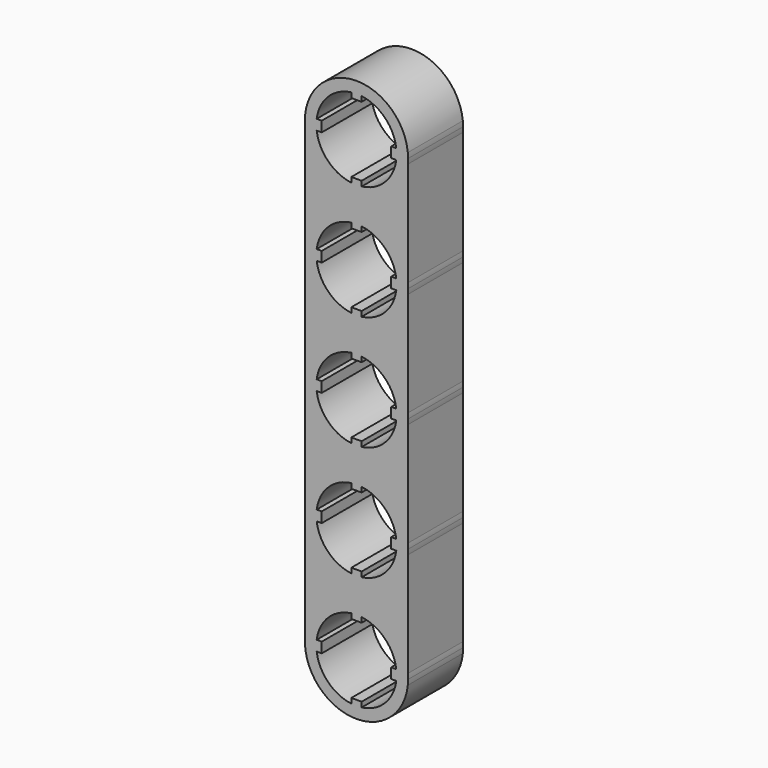
from build123d import *

# Parameters (mm, degrees)
F1_DEPTH = 7.62


with BuildPart() as f1:
    # F0 (on Front) → F1 (new body)
    with BuildSketch(Plane.XZ):
        with BuildLine():
            Line((-7.840858501, -16.5704088648), (-7.840858501, -5.0134088648))
            ThreePointArc((-7.840858501, -5.0134088648), (-13.5272117041, -10.1569088648), (-19.2135649071, -5.0134088648))
            Line((-19.2135649071, -5.0134088648), (-19.2135649071, -16.5704088648))
            ThreePointArc((-19.2135649071, -16.5704088648), (-13.5272117041, -11.4269088648), (-7.840858501, -16.5704088648))
        make_face()
        with BuildLine():
            Line((-7.840858501, -5.0134088648), (-7.840858501, -3.8704088648))
            ThreePointArc((-7.840858501, -3.8704088648), (-13.5272117041, 1.2730911352), (-19.2135649071, -3.8704088648))
            Line((-19.2135649071, -3.8704088648), (-19.2135649071, -5.0134088648))
            ThreePointArc((-19.2135649071, -5.0134088648), (-13.5272117041, -10.1569088648), (-7.840858501, -5.0134088648))
        make_face()
        with BuildLine():
            ThreePointArc((-9.1191040886, -3.8704088648), (-9.0914443888, -4.1555640997), (-9.0822117041, -4.4419088648))
            ThreePointArc((-9.0822117041, -4.4419088648), (-9.0914443888, -4.7282536299), (-9.1191040886, -5.0134088648))
            ThreePointArc((-9.1191040886, -5.0134088648), (-10.3841220617, -7.5849985072), (-12.9557117041, -8.8500164803))
            ThreePointArc((-12.9557117041, -8.8500164803), (-13.5272117041, -8.8869088648), (-14.0987117041, -8.8500164803))
            ThreePointArc((-14.0987117041, -8.8500164803), (-16.6703013465, -7.5849985072), (-17.9353193196, -5.0134088648))
            ThreePointArc((-17.9353193196, -5.0134088648), (-17.9722117041, -4.4419088648), (-17.9353193196, -3.8704088648))
            ThreePointArc((-17.9353193196, -3.8704088648), (-16.6703013465, -1.2988192224), (-14.0987117041, -0.0338012493))
            ThreePointArc((-14.0987117041, -0.0338012493), (-13.5272117041, 0.0030911352), (-12.9557117041, -0.0338012493))
            ThreePointArc((-12.9557117041, -0.0338012493), (-10.3841220617, -1.2988192224), (-9.1191040886, -3.8704088648))
        make_face(mode=Mode.SUBTRACT)
        with BuildLine():
            Line((-7.840858501, -41.9704088648), (-7.840858501, -30.4134088648))
            ThreePointArc((-7.840858501, -30.4134088648), (-13.5272117041, -35.5569088648), (-19.2135649071, -30.4134088648))
            Line((-19.2135649071, -30.4134088648), (-19.2135649071, -41.9704088648))
            ThreePointArc((-19.2135649071, -41.9704088648), (-13.5272117041, -36.8269088648), (-7.840858501, -41.9704088648))
        make_face()
        with BuildLine():
            Line((-7.840858501, -30.4134088648), (-7.840858501, -29.2704088648))
            ThreePointArc((-7.840858501, -29.2704088648), (-13.5272117041, -24.1269088648), (-19.2135649071, -29.2704088648))
            Line((-19.2135649071, -29.2704088648), (-19.2135649071, -30.4134088648))
            ThreePointArc((-19.2135649071, -30.4134088648), (-13.5272117041, -35.5569088648), (-7.840858501, -30.4134088648))
        make_face()
        with BuildLine():
            ThreePointArc((-9.1191040886, -29.2704088648), (-9.0914443888, -29.5555640997), (-9.0822117041, -29.8419088648))
            ThreePointArc((-9.0822117041, -29.8419088648), (-9.0914443888, -30.1282536299), (-9.1191040886, -30.4134088648))
            ThreePointArc((-9.1191040886, -30.4134088648), (-10.3841220617, -32.9849985072), (-12.9557117041, -34.2500164803))
            ThreePointArc((-12.9557117041, -34.2500164803), (-13.5272117041, -34.2869088648), (-14.0987117041, -34.2500164803))
            ThreePointArc((-14.0987117041, -34.2500164803), (-16.6703013465, -32.9849985072), (-17.9353193196, -30.4134088648))
            ThreePointArc((-17.9353193196, -30.4134088648), (-17.9722117041, -29.8419088648), (-17.9353193196, -29.2704088648))
            ThreePointArc((-17.9353193196, -29.2704088648), (-16.6703013465, -26.6988192224), (-14.0987117041, -25.4338012493))
            ThreePointArc((-14.0987117041, -25.4338012493), (-13.5272117041, -25.3969088648), (-12.9557117041, -25.4338012493))
            ThreePointArc((-12.9557117041, -25.4338012493), (-10.3841220617, -26.6988192224), (-9.1191040886, -29.2704088648))
        make_face(mode=Mode.SUBTRACT)
        with BuildLine():
            Line((-7.840858501, -3.8704088648), (-7.840858501, 7.6865911352))
            ThreePointArc((-7.840858501, 7.6865911352), (-13.5272117041, 2.5430911352), (-19.2135649071, 7.6865911352))
            Line((-19.2135649071, 7.6865911352), (-19.2135649071, -3.8704088648))
            ThreePointArc((-19.2135649071, -3.8704088648), (-13.5272117041, 1.2730911352), (-7.840858501, -3.8704088648))
        make_face()
        with BuildLine():
            Line((-7.840858501, -29.2704088648), (-7.840858501, -17.7134088648))
            ThreePointArc((-7.840858501, -17.7134088648), (-13.5272117041, -22.8569088648), (-19.2135649071, -17.7134088648))
            Line((-19.2135649071, -17.7134088648), (-19.2135649071, -29.2704088648))
            ThreePointArc((-19.2135649071, -29.2704088648), (-13.5272117041, -24.1269088648), (-7.840858501, -29.2704088648))
        make_face()
        with BuildLine():
            Line((-7.840858501, -17.7134088648), (-7.840858501, -16.5704088648))
            ThreePointArc((-7.840858501, -16.5704088648), (-13.5272117041, -11.4269088648), (-19.2135649071, -16.5704088648))
            Line((-19.2135649071, -16.5704088648), (-19.2135649071, -17.7134088648))
            ThreePointArc((-19.2135649071, -17.7134088648), (-13.5272117041, -22.8569088648), (-7.840858501, -17.7134088648))
        make_face()
        with BuildLine():
            ThreePointArc((-9.1191040886, -16.5704088648), (-9.0914443888, -16.8555640997), (-9.0822117041, -17.1419088648))
            ThreePointArc((-9.0822117041, -17.1419088648), (-9.0914443888, -17.4282536299), (-9.1191040886, -17.7134088648))
            ThreePointArc((-9.1191040886, -17.7134088648), (-10.3841220617, -20.2849985072), (-12.9557117041, -21.5500164803))
            ThreePointArc((-12.9557117041, -21.5500164803), (-13.5272117041, -21.5869088648), (-14.0987117041, -21.5500164803))
            ThreePointArc((-14.0987117041, -21.5500164803), (-16.6703013465, -20.2849985072), (-17.9353193196, -17.7134088648))
            ThreePointArc((-17.9353193196, -17.7134088648), (-17.9722117041, -17.1419088648), (-17.9353193196, -16.5704088648))
            ThreePointArc((-17.9353193196, -16.5704088648), (-16.6703013465, -13.9988192224), (-14.0987117041, -12.7338012493))
            ThreePointArc((-14.0987117041, -12.7338012493), (-13.5272117041, -12.6969088648), (-12.9557117041, -12.7338012493))
            ThreePointArc((-12.9557117041, -12.7338012493), (-10.3841220617, -13.9988192224), (-9.1191040886, -16.5704088648))
        make_face(mode=Mode.SUBTRACT)
        with BuildLine():
            Line((-7.840858501, 7.6865911352), (-7.840858501, 8.8295911352))
            ThreePointArc((-7.840858501, 8.8295911352), (-13.5272117041, 13.9730911352), (-19.2135649071, 8.8295911352))
            Line((-19.2135649071, 8.8295911352), (-19.2135649071, 7.6865911352))
            ThreePointArc((-19.2135649071, 7.6865911352), (-13.5272117041, 2.5430911352), (-7.840858501, 7.6865911352))
        make_face()
        with BuildLine():
            ThreePointArc((-9.1191040886, 8.8295911352), (-9.0914443888, 8.5444359003), (-9.0822117041, 8.2580911352))
            ThreePointArc((-9.0822117041, 8.2580911352), (-9.0914443888, 7.9717463701), (-9.1191040886, 7.6865911352))
            ThreePointArc((-9.1191040886, 7.6865911352), (-10.3841220617, 5.1150014928), (-12.9557117041, 3.8499835197))
            ThreePointArc((-12.9557117041, 3.8499835197), (-13.5272117041, 3.8130911352), (-14.0987117041, 3.8499835197))
            ThreePointArc((-14.0987117041, 3.8499835197), (-16.6703013465, 5.1150014928), (-17.9353193196, 7.6865911352))
            ThreePointArc((-17.9353193196, 7.6865911352), (-17.9722117041, 8.2580911352), (-17.9353193196, 8.8295911352))
            ThreePointArc((-17.9353193196, 8.8295911352), (-16.6703013465, 11.4011807776), (-14.0987117041, 12.6661987507))
            ThreePointArc((-14.0987117041, 12.6661987507), (-13.5272117041, 12.7030911352), (-12.9557117041, 12.6661987507))
            ThreePointArc((-12.9557117041, 12.6661987507), (-10.3841220617, 11.4011807776), (-9.1191040886, 8.8295911352))
        make_face(mode=Mode.SUBTRACT)
        with BuildLine():
            Line((-7.840858501, -43.1134088648), (-7.840858501, -41.9704088648))
            ThreePointArc((-7.840858501, -41.9704088648), (-13.5272117041, -36.8269088648), (-19.2135649071, -41.9704088648))
            Line((-19.2135649071, -41.9704088648), (-19.2135649071, -42.5419088648))
            Line((-19.2135649071, -42.5419088648), (-19.238257097, -42.7544777244))
            ThreePointArc((-19.238257097, -42.7544777244), (-13.7071014396, -48.2540769894), (-7.840858501, -43.1134088648))
        make_face()
        with BuildLine():
            ThreePointArc((-9.1191040886, -41.9704088648), (-9.0914443888, -42.2555640997), (-9.0822117041, -42.5419088648))
            ThreePointArc((-9.0822117041, -42.5419088648), (-9.0914443888, -42.8282536299), (-9.1191040886, -43.1134088648))
            ThreePointArc((-9.1191040886, -43.1134088648), (-10.3841220617, -45.6849985072), (-12.9557117041, -46.9500164803))
            ThreePointArc((-12.9557117041, -46.9500164803), (-13.5272117041, -46.9869088648), (-14.0987117041, -46.9500164803))
            ThreePointArc((-14.0987117041, -46.9500164803), (-16.6703013465, -45.6849985072), (-17.9353193196, -43.1134088648))
            ThreePointArc((-17.9353193196, -43.1134088648), (-17.9722117041, -42.5419088648), (-17.9353193196, -41.9704088648))
            ThreePointArc((-17.9353193196, -41.9704088648), (-16.6703013465, -39.3988192224), (-14.0987117041, -38.1338012493))
            ThreePointArc((-14.0987117041, -38.1338012493), (-13.5272117041, -38.0969088648), (-12.9557117041, -38.1338012493))
            ThreePointArc((-12.9557117041, -38.1338012493), (-10.3841220617, -39.3988192224), (-9.1191040886, -41.9704088648))
        make_face(mode=Mode.SUBTRACT)
        with BuildLine():
            Line((-12.9557117041, -25.9926012493), (-12.9557117041, -25.4338012493))
            ThreePointArc((-12.9557117041, -25.4338012493), (-13.5272117041, -25.3969088648), (-14.0987117041, -25.4338012493))
            Line((-14.0987117041, -25.4338012493), (-14.0987117041, -25.9926012493))
            Line((-14.0987117041, -25.9926012493), (-12.9557117041, -25.9926012493))
        make_face()
        with BuildLine():
            Line((-19.2135649071, 7.6865911352), (-19.2135649071, 8.8295911352))
            ThreePointArc((-19.2135649071, 8.8295911352), (-19.2422117041, 8.2580911352), (-19.2135649071, 7.6865911352))
        make_face()
        with BuildLine():
            ThreePointArc((-7.840858501, 7.6865911352), (-7.8193778963, 7.9719823757), (-7.8122117041, 8.2580911352))
            ThreePointArc((-7.8122117041, 8.2580911352), (-7.8193778963, 8.5441998947), (-7.840858501, 8.8295911352))
            Line((-7.840858501, 8.8295911352), (-7.840858501, 7.6865911352))
        make_face()
        with BuildLine():
            Line((-19.2135649071, -5.0134088648), (-19.2135649071, -3.8704088648))
            ThreePointArc((-19.2135649071, -3.8704088648), (-19.2422117041, -4.4419088648), (-19.2135649071, -5.0134088648))
        make_face()
        with BuildLine():
            ThreePointArc((-7.8122117041, -17.1419088648), (-7.8193778963, -16.8558001053), (-7.840858501, -16.5704088648))
            Line((-7.840858501, -16.5704088648), (-7.840858501, -17.7134088648))
            ThreePointArc((-7.840858501, -17.7134088648), (-7.8193778963, -17.4280176243), (-7.8122117041, -17.1419088648))
        make_face()
        with BuildLine():
            ThreePointArc((-7.8122117041, -42.5419088648), (-7.8193778963, -42.2558001053), (-7.840858501, -41.9704088648))
            Line((-7.840858501, -41.9704088648), (-7.840858501, -43.1134088648))
            ThreePointArc((-7.840858501, -43.1134088648), (-7.8193778963, -42.8280176243), (-7.8122117041, -42.5419088648))
        make_face()
        with BuildLine():
            Line((-12.9557117041, -13.2926012493), (-12.9557117041, -12.7338012493))
            ThreePointArc((-12.9557117041, -12.7338012493), (-13.5272117041, -12.6969088648), (-14.0987117041, -12.7338012493))
            Line((-14.0987117041, -12.7338012493), (-14.0987117041, -13.2926012493))
            Line((-14.0987117041, -13.2926012493), (-12.9557117041, -13.2926012493))
        make_face()
        with BuildLine():
            Line((-12.9557117041, -0.5926012493), (-12.9557117041, -0.0338012493))
            ThreePointArc((-12.9557117041, -0.0338012493), (-13.5272117041, 0.0030911352), (-14.0987117041, -0.0338012493))
            Line((-14.0987117041, -0.0338012493), (-14.0987117041, -0.5926012493))
            Line((-14.0987117041, -0.5926012493), (-12.9557117041, -0.5926012493))
        make_face()
        with BuildLine():
            Line((-12.9557117041, -38.6926012493), (-12.9557117041, -38.1338012493))
            ThreePointArc((-12.9557117041, -38.1338012493), (-13.5272117041, -38.0969088648), (-14.0987117041, -38.1338012493))
            Line((-14.0987117041, -38.1338012493), (-14.0987117041, -38.6926012493))
            Line((-14.0987117041, -38.6926012493), (-12.9557117041, -38.6926012493))
        make_face()
        with BuildLine():
            ThreePointArc((-7.8122117041, -4.4419088648), (-7.8193778963, -4.1558001053), (-7.840858501, -3.8704088648))
            Line((-7.840858501, -3.8704088648), (-7.840858501, -5.0134088648))
            ThreePointArc((-7.840858501, -5.0134088648), (-7.8193778963, -4.7280176243), (-7.8122117041, -4.4419088648))
        make_face()
        with BuildLine():
            Line((-19.2135649071, -17.7134088648), (-19.2135649071, -16.5704088648))
            ThreePointArc((-19.2135649071, -16.5704088648), (-19.2422117041, -17.1419088648), (-19.2135649071, -17.7134088648))
        make_face()
        with BuildLine():
            Line((-19.2135649071, -30.4134088648), (-19.2135649071, -29.2704088648))
            ThreePointArc((-19.2135649071, -29.2704088648), (-19.2422117041, -29.8419088648), (-19.2135649071, -30.4134088648))
        make_face()
        with BuildLine():
            ThreePointArc((-7.8122117041, -29.8419088648), (-7.8193778963, -29.5558001053), (-7.840858501, -29.2704088648))
            Line((-7.840858501, -29.2704088648), (-7.840858501, -30.4134088648))
            ThreePointArc((-7.840858501, -30.4134088648), (-7.8193778963, -30.1280176243), (-7.8122117041, -29.8419088648))
        make_face()
        with BuildLine():
            Line((-12.9557117041, 12.1073987507), (-12.9557117041, 12.6661987507))
            ThreePointArc((-12.9557117041, 12.6661987507), (-13.5272117041, 12.7030911352), (-14.0987117041, 12.6661987507))
            Line((-14.0987117041, 12.6661987507), (-14.0987117041, 12.1073987507))
            Line((-14.0987117041, 12.1073987507), (-12.9557117041, 12.1073987507))
        make_face()
        with BuildLine():
            Line((-19.2135649071, -42.5419088648), (-19.2135649071, -41.9704088648))
            ThreePointArc((-19.2135649071, -41.9704088648), (-19.2393798286, -42.3620191293), (-19.238257097, -42.7544777244))
            Line((-19.238257097, -42.7544777244), (-19.2135649071, -42.5419088648))
        make_face()
        with BuildLine():
            ThreePointArc((-9.1191040886, -30.4134088648), (-9.0914443888, -30.1282536299), (-9.0822117041, -29.8419088648))
            ThreePointArc((-9.0822117041, -29.8419088648), (-9.0914443888, -29.5555640997), (-9.1191040886, -29.2704088648))
            Line((-9.1191040886, -29.2704088648), (-9.6779040886, -29.2704088648))
            Line((-9.6779040886, -29.2704088648), (-9.6779040886, -30.4134088648))
            Line((-9.6779040886, -30.4134088648), (-9.1191040886, -30.4134088648))
        make_face()
        with BuildLine():
            Line((-17.3765193196, -29.2704088648), (-17.9353193196, -29.2704088648))
            ThreePointArc((-17.9353193196, -29.2704088648), (-17.9722117041, -29.8419088648), (-17.9353193196, -30.4134088648))
            Line((-17.9353193196, -30.4134088648), (-17.3765193196, -30.4134088648))
            Line((-17.3765193196, -30.4134088648), (-17.3765193196, -29.2704088648))
        make_face()
        with BuildLine():
            ThreePointArc((-9.1191040886, -5.0134088648), (-9.0914443888, -4.7282536299), (-9.0822117041, -4.4419088648))
            ThreePointArc((-9.0822117041, -4.4419088648), (-9.0914443888, -4.1555640997), (-9.1191040886, -3.8704088648))
            Line((-9.1191040886, -3.8704088648), (-9.6779040886, -3.8704088648))
            Line((-9.6779040886, -3.8704088648), (-9.6779040886, -5.0134088648))
            Line((-9.6779040886, -5.0134088648), (-9.1191040886, -5.0134088648))
        make_face()
        with BuildLine():
            ThreePointArc((-14.0987117041, -21.5500164803), (-13.5272117041, -21.5869088648), (-12.9557117041, -21.5500164803))
            Line((-12.9557117041, -21.5500164803), (-12.9557117041, -20.9912164803))
            Line((-12.9557117041, -20.9912164803), (-14.0987117041, -20.9912164803))
            Line((-14.0987117041, -20.9912164803), (-14.0987117041, -21.5500164803))
        make_face()
        with BuildLine():
            Line((-17.3765193196, -41.9704088648), (-17.9353193196, -41.9704088648))
            ThreePointArc((-17.9353193196, -41.9704088648), (-17.9722117041, -42.5419088648), (-17.9353193196, -43.1134088648))
            Line((-17.9353193196, -43.1134088648), (-17.3765193196, -43.1134088648))
            Line((-17.3765193196, -43.1134088648), (-17.3765193196, -41.9704088648))
        make_face()
        with BuildLine():
            ThreePointArc((-9.1191040886, -17.7134088648), (-9.0914443888, -17.4282536299), (-9.0822117041, -17.1419088648))
            ThreePointArc((-9.0822117041, -17.1419088648), (-9.0914443888, -16.8555640997), (-9.1191040886, -16.5704088648))
            Line((-9.1191040886, -16.5704088648), (-9.6779040886, -16.5704088648))
            Line((-9.6779040886, -16.5704088648), (-9.6779040886, -17.7134088648))
            Line((-9.6779040886, -17.7134088648), (-9.1191040886, -17.7134088648))
        make_face()
        with BuildLine():
            ThreePointArc((-14.0987117041, -46.9500164803), (-13.5272117041, -46.9869088648), (-12.9557117041, -46.9500164803))
            Line((-12.9557117041, -46.9500164803), (-12.9557117041, -46.3912164803))
            Line((-12.9557117041, -46.3912164803), (-14.0987117041, -46.3912164803))
            Line((-14.0987117041, -46.3912164803), (-14.0987117041, -46.9500164803))
        make_face()
        with BuildLine():
            Line((-17.3765193196, -3.8704088648), (-17.9353193196, -3.8704088648))
            ThreePointArc((-17.9353193196, -3.8704088648), (-17.9722117041, -4.4419088648), (-17.9353193196, -5.0134088648))
            Line((-17.9353193196, -5.0134088648), (-17.3765193196, -5.0134088648))
            Line((-17.3765193196, -5.0134088648), (-17.3765193196, -3.8704088648))
        make_face()
        with BuildLine():
            ThreePointArc((-9.1191040886, 7.6865911352), (-9.0914443888, 7.9717463701), (-9.0822117041, 8.2580911352))
            ThreePointArc((-9.0822117041, 8.2580911352), (-9.0914443888, 8.5444359003), (-9.1191040886, 8.8295911352))
            Line((-9.1191040886, 8.8295911352), (-9.6779040886, 8.8295911352))
            Line((-9.6779040886, 8.8295911352), (-9.6779040886, 7.6865911352))
            Line((-9.6779040886, 7.6865911352), (-9.1191040886, 7.6865911352))
        make_face()
        with BuildLine():
            ThreePointArc((-14.0987117041, -8.8500164803), (-13.5272117041, -8.8869088648), (-12.9557117041, -8.8500164803))
            Line((-12.9557117041, -8.8500164803), (-12.9557117041, -8.2912164803))
            Line((-12.9557117041, -8.2912164803), (-14.0987117041, -8.2912164803))
            Line((-14.0987117041, -8.2912164803), (-14.0987117041, -8.8500164803))
        make_face()
        with BuildLine():
            Line((-17.3765193196, -16.5704088648), (-17.9353193196, -16.5704088648))
            ThreePointArc((-17.9353193196, -16.5704088648), (-17.9722117041, -17.1419088648), (-17.9353193196, -17.7134088648))
            Line((-17.9353193196, -17.7134088648), (-17.3765193196, -17.7134088648))
            Line((-17.3765193196, -17.7134088648), (-17.3765193196, -16.5704088648))
        make_face()
        with BuildLine():
            Line((-17.3765193196, 8.8295911352), (-17.9353193196, 8.8295911352))
            ThreePointArc((-17.9353193196, 8.8295911352), (-17.9722117041, 8.2580911352), (-17.9353193196, 7.6865911352))
            Line((-17.9353193196, 7.6865911352), (-17.3765193196, 7.6865911352))
            Line((-17.3765193196, 7.6865911352), (-17.3765193196, 8.8295911352))
        make_face()
        with BuildLine():
            ThreePointArc((-14.0987117041, 3.8499835197), (-13.5272117041, 3.8130911352), (-12.9557117041, 3.8499835197))
            Line((-12.9557117041, 3.8499835197), (-12.9557117041, 4.4087835197))
            Line((-12.9557117041, 4.4087835197), (-14.0987117041, 4.4087835197))
            Line((-14.0987117041, 4.4087835197), (-14.0987117041, 3.8499835197))
        make_face()
        with BuildLine():
            ThreePointArc((-9.1191040886, -43.1134088648), (-9.0914443888, -42.8282536299), (-9.0822117041, -42.5419088648))
            ThreePointArc((-9.0822117041, -42.5419088648), (-9.0914443888, -42.2555640997), (-9.1191040886, -41.9704088648))
            Line((-9.1191040886, -41.9704088648), (-9.6779040886, -41.9704088648))
            Line((-9.6779040886, -41.9704088648), (-9.6779040886, -43.1134088648))
            Line((-9.6779040886, -43.1134088648), (-9.1191040886, -43.1134088648))
        make_face()
        with BuildLine():
            ThreePointArc((-14.0987117041, -34.2500164803), (-13.5272117041, -34.2869088648), (-12.9557117041, -34.2500164803))
            Line((-12.9557117041, -34.2500164803), (-12.9557117041, -33.6912164803))
            Line((-12.9557117041, -33.6912164803), (-14.0987117041, -33.6912164803))
            Line((-14.0987117041, -33.6912164803), (-14.0987117041, -34.2500164803))
        make_face()
    extrude(amount=F1_DEPTH)


solid = f1.part
